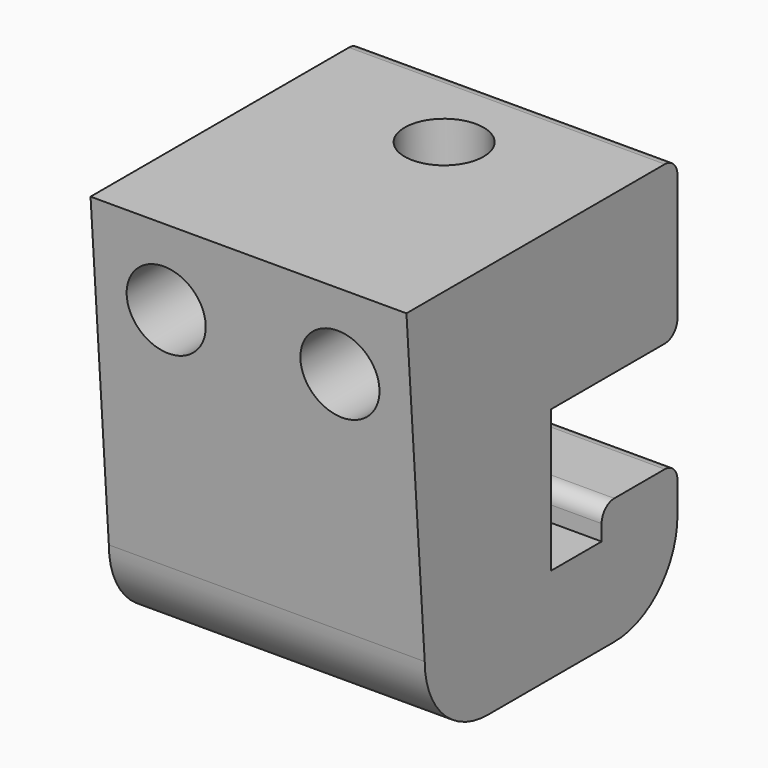
from build123d import *

# Parameters (mm, degrees)
F0_W           = 20
F0_H           = 20
F1_DEPTH       = 25
F3_DEPTH       = 25
F4_R           = 2.5
F5_DEPTH       = 10
F7_R           = 5
F8_R           = 1
F10_DEPTH      = 20
F6_R           = 2.5
F11_DEPTH      = 15
F11_DEPTH_BACK = 25


with BuildPart() as f1:
    # F0 (on Top) → F1 (new body)
    with BuildSketch(Plane.XY):
        Rectangle(F0_W, F0_H)
    extrude(amount=F1_DEPTH)

    # F2 (on face) → F3 (cut)
    with BuildSketch(Plane(origin=(-10, 0, 0), x_dir=(0, -1, 0), z_dir=(-1, 0, 0))):
        Polygon((0, 15), (-10, 15), (-10, 8), (-4, 8), (-4, 6), (0, 6), (0, 8), align=None)
    extrude(amount=-F3_DEPTH, mode=Mode.SUBTRACT)

    # F4 (on face) → F5 (cut)
    with BuildSketch(Plane.XY.offset(25)):
        with Locations((0, 4.0342840366)):
            Circle(F4_R)
    extrude(amount=-F5_DEPTH, mode=Mode.SUBTRACT)

    # F7
    f7_edges = [f1.edges().sort_by_distance(p)[0] for p in [
        (0, 10, 0),
        (0, -10, 0),
    ]]
    fillet(f7_edges, radius=F7_R)

    # F8
    f8_edges = [f1.edges().sort_by_distance(p)[0] for p in [
        (0, 10, 15),
        (0, 10, 8),
        (0, 10, 25),
        (0, 4, 8),
    ]]
    fillet(f8_edges, radius=F8_R)

    # F9 (on face) → F10 (join)
    with BuildSketch(Plane(origin=(-10, 0, 0), x_dir=(0, -1, 0), z_dir=(-1, 0, 0))):
        Polygon((11.4480117336, 25), (10, 25), (10, 5), align=None)
    extrude(amount=-F10_DEPTH)

    # F6 (on face) → F11 (cut, two sides)
    with BuildSketch(Plane.XZ.offset(10)) as f11_sk:
        with Locations((-5.5, 20)):
            Circle(F6_R)
        with Locations((5.5, 20)):
            Circle(F6_R)
    extrude(amount=-F11_DEPTH, mode=Mode.SUBTRACT)
    extrude(f11_sk.sketch, amount=F11_DEPTH_BACK, mode=Mode.SUBTRACT)


solid = f1.part
